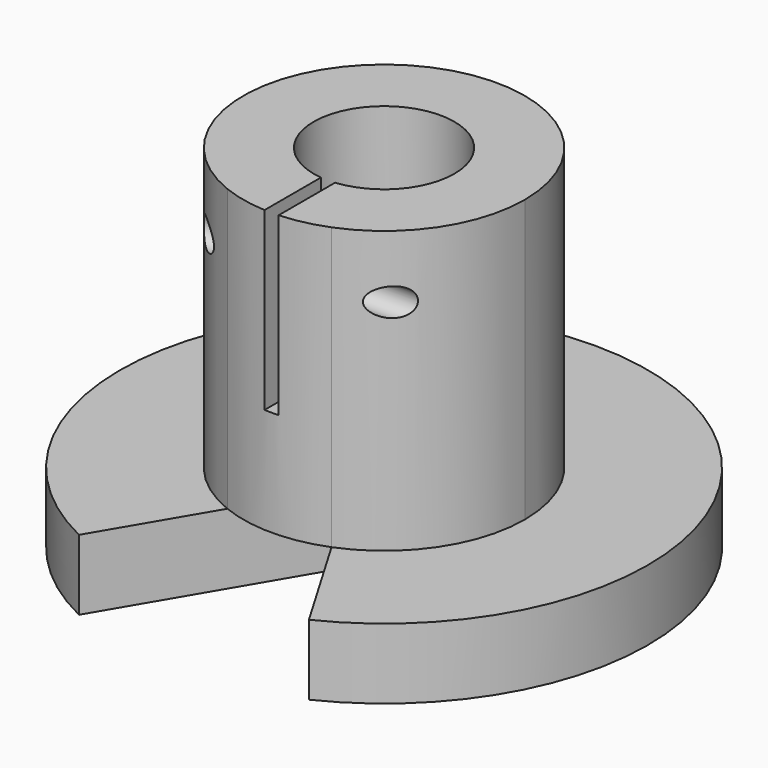
from build123d import *

# Parameters (mm, degrees)
F0_R     = 3
F1_DEPTH = 10
F3_DEPTH = 40
F5_DEPTH = 25
F6_R     = 3
F6_R_2   = 2
F7_DEPTH = 15
F8_R     = 1.9959654756
F9_DEPTH = 19.5


with BuildPart() as f1:
    # F0 (on Top) → F1 (new body)
    with BuildSketch(Plane.XY):
        with BuildLine():
            Line((0, -6), (16.3284806108, -33.7584170384))
            ThreePointArc((16.3284806108, -33.7584170384), (0, 37.5), (-16.3284806108, -33.7584170384))
            Line((-16.3284806108, -33.7584170384), (0, -6))
        make_face()
        Circle(F0_R, mode=Mode.SUBTRACT)
    extrude(amount=F1_DEPTH)

    # F2 (on face) → F3 (join)
    with BuildSketch(Plane.XY.offset(10)):
        with BuildLine():
            Line((-2.2077877193, -9.7532391228), (-7.4003026682, -18.5805145359))
            ThreePointArc((-7.4003026682, -18.5805145359), (0, -20), (7.4003026682, -18.5805145359))
            Line((7.4003026682, -18.5805145359), (2.2077877193, -9.7532391228))
            ThreePointArc((2.2077877193, -9.7532391228), (0, -10), (-2.2077877193, -9.7532391228))
        make_face()
        with BuildLine():
            ThreePointArc((7.4003026682, -18.5805145359), (16.5530367813, -11.2248373404), (20, 0))
            ThreePointArc((20, 0), (-11.2248373404, 16.5530367813), (-7.4003026682, -18.5805145359))
            Line((-7.4003026682, -18.5805145359), (-2.2077877193, -9.7532391228))
            ThreePointArc((-2.2077877193, -9.7532391228), (-6.2418796371, 7.8127420664), (10, 0))
            ThreePointArc((10, 0), (7.8127420664, -6.2418796371), (2.2077877193, -9.7532391228))
            Line((2.2077877193, -9.7532391228), (7.4003026682, -18.5805145359))
        make_face()
    extrude(amount=F3_DEPTH)

    # F4 (on face) → F5 (cut)
    with BuildSketch(Plane.XY.offset(50)):
        with BuildLine():
            ThreePointArc((-1, -19.9749843554), (0, -20), (1, -19.9749843554))
            Line((1, -19.9749843554), (1, -9.9498743711))
            ThreePointArc((1, -9.9498743711), (0, -10), (-1, -9.9498743711))
            Line((-1, -9.9498743711), (-1, -19.9749843554))
        make_face()
    extrude(amount=-F5_DEPTH, mode=Mode.SUBTRACT)

    # F6 (on face) → F7 (join)
    with BuildSketch(Plane.XY.offset(10)):
        Circle(F6_R)
        Circle(F6_R_2, mode=Mode.SUBTRACT)
    extrude(amount=-F7_DEPTH)

    # F8 (on Right) → F9 (cut, symmetric)
    with BuildSketch(Plane.YZ):
        with Locations((-14.9785717949, 41.0785749555)):
            Circle(F8_R)
    extrude(amount=F9_DEPTH, both=True, mode=Mode.SUBTRACT)


solid = f1.part
